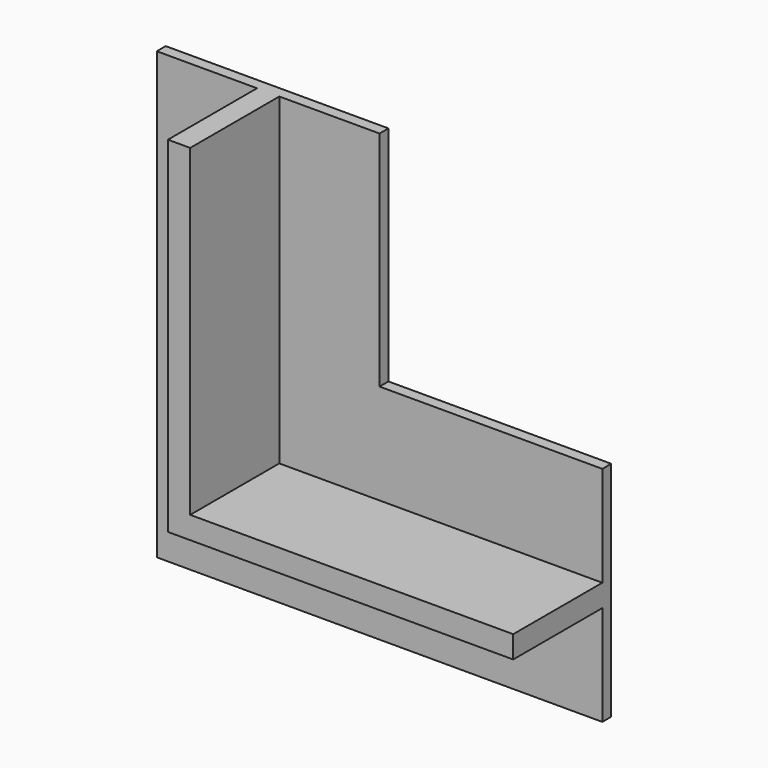
from build123d import *

# Parameters (mm, degrees)
F1_DEPTH = 5
F2_DEPTH = 0.5


with BuildPart() as f1:
    # F0 (on Front) → F1 (new body)
    with BuildSketch(Plane.XZ):
        Polygon((-63.505882, -24.190387), (-48.005882, -24.190387), (-48.005882, -23.190387), (-62.505882, -23.190387), (-62.505882, -8.690387), (-63.505882, -8.690387), align=None)
    extrude(amount=F1_DEPTH)

    # F0 (on Front) → F2 (join)
    with BuildSketch(Plane.XZ):
        Polygon((-68.005882, -8.690387), (-68.005882, -28.690387), (-48.005882, -28.690387), (-48.005882, -24.190387), (-63.505882, -24.190387), (-63.505882, -8.690387), align=None)
        Polygon((-63.505882, -24.190387), (-48.005882, -24.190387), (-48.005882, -23.190387), (-62.505882, -23.190387), (-62.505882, -8.690387), (-63.505882, -8.690387), align=None)
        Polygon((-62.505882, -23.190387), (-48.005882, -23.190387), (-48.005882, -18.690387), (-58.005882, -18.690387), (-58.005882, -8.690387), (-62.505882, -8.690387), align=None)
    extrude(amount=-F2_DEPTH)


solid = f1.part
